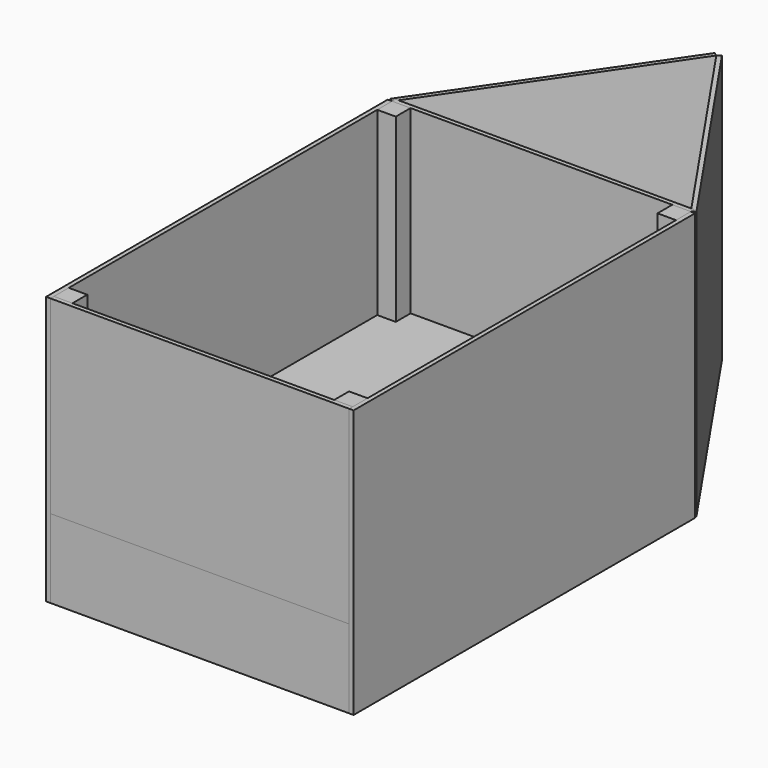
from build123d import *

# Parameters (mm, degrees)
F0_W      = 410
F0_H      = 580
F1_DEPTH  = 18
F2_W      = 25.4
F2_H      = 25.4
F3_DEPTH  = 350
F7_W      = 410
F7_H      = 580
F8_DEPTH  = 12
F10_DEPTH = 18
F11_W     = 410
F11_H     = 108
F12_DEPTH = 6
F13_W     = 410
F13_H     = 260
F14_DEPTH = 6
F15_W     = 586
F15_H     = 368
F16_DEPTH = 6
F18_W     = 363.352445
F18_H     = 368
F19_DEPTH = 6
F21_W     = 410
F21_H     = 6
F22_DEPTH = 350


with BuildPart() as f1:
    # F0 (on Top) → F1 (new body)
    with BuildSketch(Plane.XY):
        Rectangle(F0_W, F0_H)
    extrude(amount=F1_DEPTH)



with BuildPart() as f3:
    # F2 (on face) → F3 (new body)
    with BuildSketch(Plane.XY.offset(18)):
        with Locations((-192.3, -277.3)):
            Rectangle(F2_W, F2_H)
    extrude(amount=F3_DEPTH)


with BuildPart() as f4_1:
    # F4: instance of F3
    add(f3.part.mirror(Plane.XZ))


with BuildPart() as f5_1:
    # F5: instance of F4_1
    add(f4_1.part.mirror(Plane.YZ))


with BuildPart() as f5_2:
    # F5: instance of F3
    add(f3.part.mirror(Plane.YZ))


with BuildPart() as f8:
    # F7 (on offset) → F8 (new body)
    with BuildSketch(Plane.XY.offset(108)):
        Rectangle(F7_W, F7_H)
    extrude(amount=F8_DEPTH)


with BuildPart() as f1_1:
    add(f1.part)

    add(f4_1.part)  # F10 merges F4_1

    add(f5_1.part)  # F10 merges F5_1
    # F9 (on Top) → F10 (join)
    with BuildSketch(Plane.XY):
        Polygon((205, 290), (0, 590), (-205, 290), align=None)
    extrude(amount=F10_DEPTH)


with BuildPart() as f12:
    # F11 (on face) → F12 (new body)
    with BuildSketch(Plane.XZ.offset(290)):
        with Locations((0, 54)):
            Rectangle(F11_W, F11_H)
    extrude(amount=F12_DEPTH)


with BuildPart() as f14:
    # F13 (on face) → F14 (new body)
    with BuildSketch(Plane.XZ.offset(290)):
        with Locations((0, 238)):
            Rectangle(F13_W, F13_H)
    extrude(amount=F14_DEPTH)


with BuildPart() as f16:
    # F15 (on face) → F16 (new body)
    with BuildSketch(Plane(origin=(-205, 0, 0), x_dir=(0, -1, 0), z_dir=(-1, 0, 0))):
        with Locations((3, 184)):
            Rectangle(F15_W, F15_H)
    extrude(amount=F16_DEPTH)


with BuildPart() as f17_1:
    # F17: instance of F16
    add(f16.part.mirror(Plane.YZ))


with BuildPart() as f19:
    # F18 (on face) → F19 (new body)
    with BuildSketch(Plane(origin=(274.834312, 187.803446, 0), x_dir=(-0.564191, 0.825645, 0), z_dir=(0.825645, 0.564191, 0))):
        with Locations((305.454116, 184)):
            Rectangle(F18_W, F18_H)
    extrude(amount=F19_DEPTH)


with BuildPart() as f20_1:
    # F20: instance of F19
    add(f19.part.mirror(Plane.YZ))


with BuildPart() as f22:
    # F21 (on face) → F22 (new body)
    with BuildSketch(Plane.XY.offset(18)):
        with Locations((0, 293)):
            Rectangle(F21_W, F21_H)
    extrude(amount=F22_DEPTH)


solid = Compound([f3.part, f5_2.part, f8.part, f1_1.part, f12.part, f14.part, f16.part, f17_1.part, f19.part, f20_1.part, f22.part])
